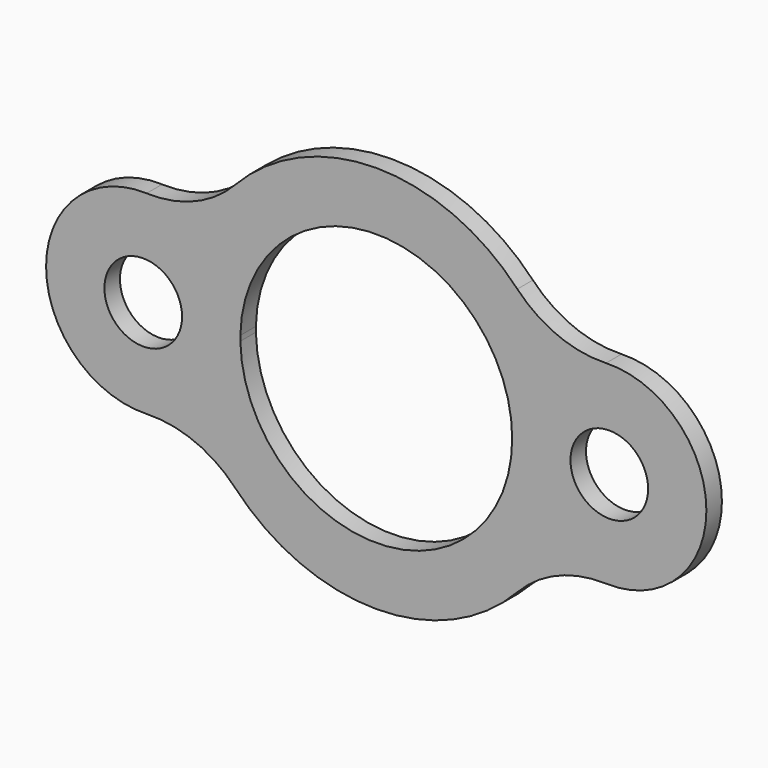
from build123d import *

# Parameters (mm, degrees)
F0_R     = 12.7
F1_DEPTH = 6.35


with BuildPart() as f1:
    # F0 (on Front) → F1 (new body)
    with BuildSketch(Plane.XZ):
        with BuildLine():
            ThreePointArc((-75.109355, -31.75024), (-59.33875, -34.579478), (-46.125851, -43.642363))
            ThreePointArc((-46.125851, -43.642363), (0.007907, -63.5), (46.136719, -43.630874))
            ThreePointArc((46.136719, -43.630874), (59.347524, -34.564632), (75.117614, -31.731545))
            ThreePointArc((75.117614, -31.731545), (107.95, 0), (75.117614, 31.731545))
            ThreePointArc((75.117614, 31.731545), (59.347524, 34.564632), (46.136719, 43.630874))
            ThreePointArc((46.136719, 43.630874), (0.007907, 63.5), (-46.125851, 43.642363))
            ThreePointArc((-46.125851, 43.642363), (-59.33875, 34.579478), (-75.109355, 31.75024))
            ThreePointArc((-75.109355, 31.75024), (-107.968966, 0), (-75.109355, -31.75024))
        make_face()
        with Locations((-76.2, 0)):
            Circle(F0_R, mode=Mode.SUBTRACT)
        with BuildLine():
            ThreePointArc((-44.442095, 0.838267), (0.419152, 44.448024), (44.45, 0))
            ThreePointArc((44.45, 0), (0.419152, -44.448024), (-44.442095, -0.838267))
            ThreePointArc((-44.442095, -0.838267), (-44.45, 0), (-44.442095, 0.838267))
        make_face(mode=Mode.SUBTRACT)
        with Locations((76.2, 0)):
            Circle(F0_R, mode=Mode.SUBTRACT)
    extrude(amount=F1_DEPTH)


solid = f1.part
